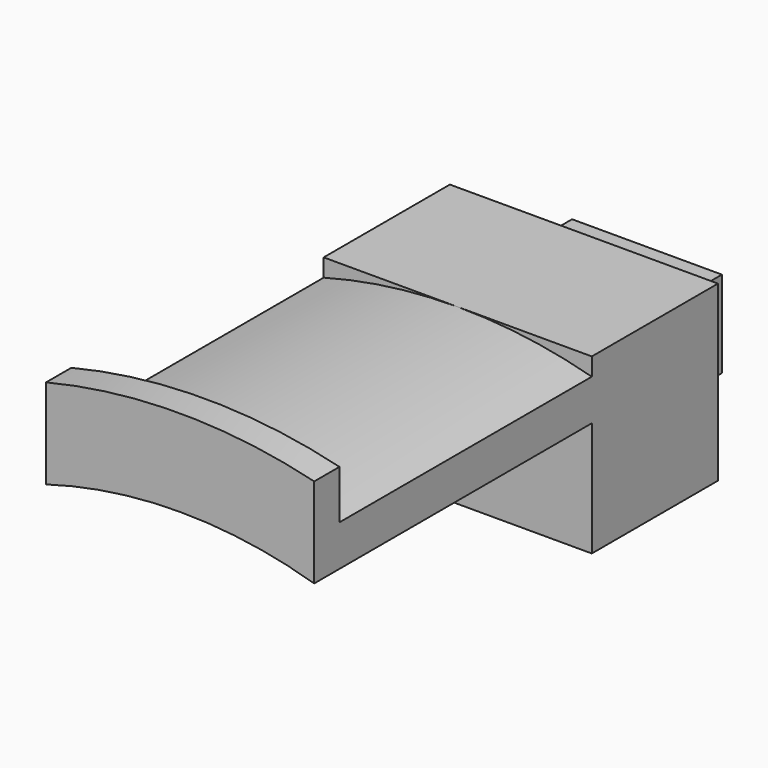
from build123d import *

# Parameters (mm, degrees)
F0_W     = 19
F0_H     = 11
F1_DEPTH = 10
F2_W     = 34
F2_H     = 22
F3_DEPTH = 20
F5_DEPTH = 40
F7_DEPTH = 4
F8_R     = 1.5
F9_DEPTH = 16.501


with BuildPart() as f1:
    # F0 (on Front) → F1 (new body)
    with BuildSketch(Plane.XZ):
        Rectangle(F0_W, F0_H)
    extrude(amount=F1_DEPTH)

    # F2 (on face) → F3 (join)
    with BuildSketch(Plane.XZ.offset(10)):
        Rectangle(F2_W, F2_H)
    extrude(amount=F3_DEPTH)

    # F4 (on face) → F5 (join)
    with BuildSketch(Plane.XZ.offset(30)):
        with BuildLine():
            Line((17, 3.54129), (17, 8.737549))
            ThreePointArc((17, 8.737549), (0, 11), (-17, 8.737549))
            Line((-17, 8.737549), (-17, 3.54129))
            ThreePointArc((-17, 3.54129), (0, 6), (17, 3.54129))
        make_face()
    extrude(amount=F5_DEPTH)

    # F6 (on face) → F7 (join)
    with BuildSketch(Plane.XZ.offset(70)):
        with BuildLine():
            Line((-17, 8.737549), (-17, 3.54129))
            ThreePointArc((-17, 3.54129), (0, 6), (17, 3.54129))
            Line((17, 3.54129), (17, 8.737549))
            Line((17, 8.737549), (17, 14.934752))
            ThreePointArc((17, 14.934752), (0, 17), (-17, 14.934752))
            Line((-17, 14.934752), (-17, 8.737549))
        make_face()
    extrude(amount=F7_DEPTH)

    # F8 (on face) → F9 (cut, through all)
    with BuildSketch(Plane.XY.offset(5.5)):
        with Locations((0, -5)):
            Circle(F8_R)
    extrude(amount=-F9_DEPTH, mode=Mode.SUBTRACT)


solid = f1.part
